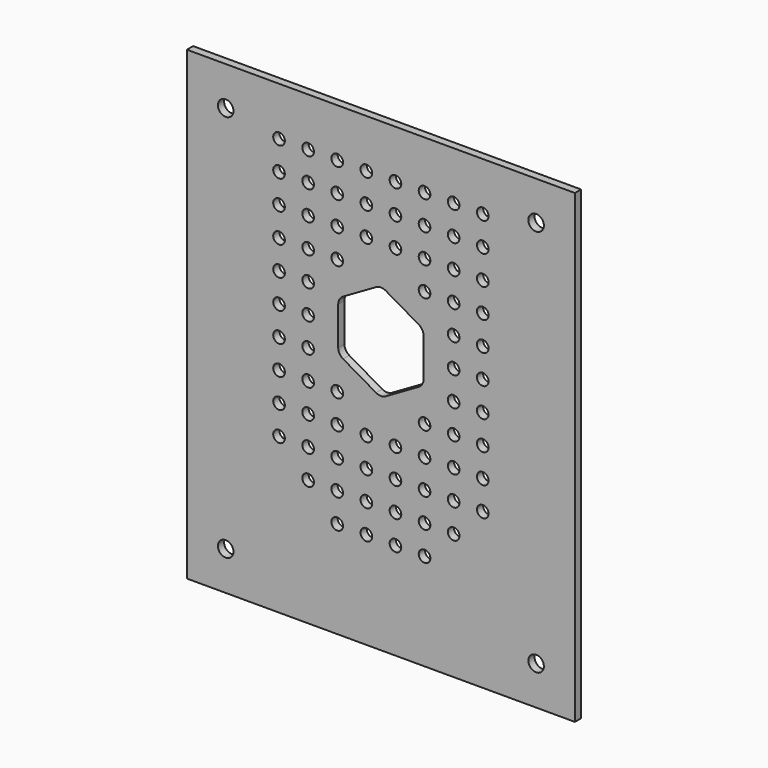
from build123d import *

# Parameters (mm, degrees)
F0_W     = 100
F0_H     = 120
F0_R     = 2
F1_DEPTH = 2
F3_DEPTH = 25
F4_R     = 1.5
F5_DEPTH = 2.001


with BuildPart() as f1:
    # F0 (on Front) → F1 (new body)
    with BuildSketch(Plane.XZ):
        Rectangle(F0_W, F0_H)
        with Locations((-40, -50)):
            Circle(F0_R, mode=Mode.SUBTRACT)
        with Locations((40, -50)):
            Circle(F0_R, mode=Mode.SUBTRACT)
        with Locations((-40, 50)):
            Circle(F0_R, mode=Mode.SUBTRACT)
        with Locations((40, 50)):
            Circle(F0_R, mode=Mode.SUBTRACT)
    extrude(amount=F1_DEPTH)

    # F2 (on face) → F3 (cut)
    with BuildSketch(Plane.XZ.offset(2)):
        with BuildLine():
            Line((-1.25, 21.980018), (-9.75, 17.072541))
            ThreePointArc((-9.75, 17.072541), (-10.665064, 16.157477), (-11, 14.907477))
            Line((-11, 14.907477), (-11, 5.092523))
            ThreePointArc((-11, 5.092523), (-10.665064, 3.842523), (-9.75, 2.927459))
            Line((-9.75, 2.927459), (-1.25, -1.980018))
            ThreePointArc((-1.25, -1.980018), (0, -2.314955), (1.25, -1.980018))
            Line((1.25, -1.980018), (9.75, 2.927459))
            ThreePointArc((9.75, 2.927459), (10.665064, 3.842523), (11, 5.092523))
            Line((11, 5.092523), (11, 10.354255))
            Line((11, 10.354255), (0, 10.354255))
            Line((0, 10.354255), (0, 22.314955))
            ThreePointArc((0, 22.314955), (-0.647048, 22.229769), (-1.25, 21.980018))
        make_face()
        with BuildLine():
            ThreePointArc((1.25, 21.980018), (0.647048, 22.229769), (0, 22.314955))
            Line((0, 22.314955), (0, 10.354255))
            Line((0, 10.354255), (11, 10.354255))
            Line((11, 10.354255), (11, 14.907477))
            ThreePointArc((11, 14.907477), (10.665064, 16.157477), (9.75, 17.072541))
            Line((9.75, 17.072541), (1.25, 21.980018))
        make_face()
    extrude(amount=-F3_DEPTH, mode=Mode.SUBTRACT)

    # F4 (on face) → F5 (cut, through all)
    with BuildSketch(Plane.XZ.offset(2)):
        with Locations((3.75, 47.5)):
            Circle(F4_R)
        with Locations((3.75, 40)):
            Circle(F4_R)
        with Locations((3.75, 32.5)):
            Circle(F4_R)
        with Locations((11.25, 47.5)):
            Circle(F4_R)
        with Locations((11.25, 40)):
            Circle(F4_R)
        with Locations((11.25, 32.5)):
            Circle(F4_R)
        with Locations((11.25, 25)):
            Circle(F4_R)
        with Locations((18.75, 47.5)):
            Circle(F4_R)
        with Locations((18.75, 40)):
            Circle(F4_R)
        with Locations((18.75, 32.5)):
            Circle(F4_R)
        with Locations((18.75, 25)):
            Circle(F4_R)
        with Locations((18.75, 17.5)):
            Circle(F4_R)
        with Locations((18.75, 10)):
            Circle(F4_R)
        with Locations((18.75, 2.5)):
            Circle(F4_R)
        with Locations((26.25, 47.5)):
            Circle(F4_R)
        with Locations((26.25, 40)):
            Circle(F4_R)
        with Locations((26.25, 32.5)):
            Circle(F4_R)
        with Locations((26.25, 25)):
            Circle(F4_R)
        with Locations((26.25, 17.5)):
            Circle(F4_R)
        with Locations((26.25, 10)):
            Circle(F4_R)
        with Locations((26.25, 2.5)):
            Circle(F4_R)
        with Locations((3.75, -12.5)):
            Circle(F4_R)
        with Locations((3.75, -20)):
            Circle(F4_R)
        with Locations((3.75, -27.5)):
            Circle(F4_R)
        with Locations((3.75, -35)):
            Circle(F4_R)
        with Locations((11.25, -5)):
            Circle(F4_R)
        with Locations((11.25, -12.5)):
            Circle(F4_R)
        with Locations((11.25, -20)):
            Circle(F4_R)
        with Locations((11.25, -27.5)):
            Circle(F4_R)
        with Locations((11.25, -35)):
            Circle(F4_R)
        with Locations((18.75, -5)):
            Circle(F4_R)
        with Locations((18.75, -12.5)):
            Circle(F4_R)
        with Locations((18.75, -20)):
            Circle(F4_R)
        with Locations((18.75, -27.5)):
            Circle(F4_R)
        with Locations((26.25, -5)):
            Circle(F4_R)
        with Locations((26.25, -12.5)):
            Circle(F4_R)
        with Locations((26.25, -20)):
            Circle(F4_R)
        with Locations((-3.75, 47.5)):
            Circle(F4_R)
        with Locations((-3.75, 40)):
            Circle(F4_R)
        with Locations((-3.75, -12.5)):
            Circle(F4_R)
        with Locations((-3.75, -35)):
            Circle(F4_R)
        with Locations((-26.25, 17.5)):
            Circle(F4_R)
        with Locations((-26.25, -12.5)):
            Circle(F4_R)
        with Locations((-26.25, -5)):
            Circle(F4_R)
        with Locations((-26.25, 47.5)):
            Circle(F4_R)
        with Locations((-26.25, 32.5)):
            Circle(F4_R)
        with Locations((-26.25, 10)):
            Circle(F4_R)
        with Locations((-26.25, 40)):
            Circle(F4_R)
        with Locations((-3.75, -27.5)):
            Circle(F4_R)
        with Locations((-11.25, 40)):
            Circle(F4_R)
        with Locations((-26.25, 2.5)):
            Circle(F4_R)
        with Locations((-11.25, -27.5)):
            Circle(F4_R)
        with Locations((-11.25, 32.5)):
            Circle(F4_R)
        with Locations((-11.25, 47.5)):
            Circle(F4_R)
        with Locations((-18.75, 25)):
            Circle(F4_R)
        with Locations((-18.75, 10)):
            Circle(F4_R)
        with Locations((-11.25, -35)):
            Circle(F4_R)
        with Locations((-11.25, -20)):
            Circle(F4_R)
        with Locations((-18.75, 2.5)):
            Circle(F4_R)
        with Locations((-18.75, -12.5)):
            Circle(F4_R)
        with Locations((-11.25, -5)):
            Circle(F4_R)
        with Locations((-11.25, -12.5)):
            Circle(F4_R)
        with Locations((-18.75, -20)):
            Circle(F4_R)
        with Locations((-18.75, 32.5)):
            Circle(F4_R)
        with Locations((-26.25, 25)):
            Circle(F4_R)
        with Locations((-26.25, -20)):
            Circle(F4_R)
        with Locations((-11.25, 25)):
            Circle(F4_R)
        with Locations((-3.75, 32.5)):
            Circle(F4_R)
        with Locations((-18.75, 47.5)):
            Circle(F4_R)
        with Locations((-18.75, -5)):
            Circle(F4_R)
        with Locations((-18.75, 40)):
            Circle(F4_R)
        with Locations((-18.75, -27.5)):
            Circle(F4_R)
        with Locations((-18.75, 17.5)):
            Circle(F4_R)
        with Locations((-3.75, -20)):
            Circle(F4_R)
    extrude(amount=-F5_DEPTH, mode=Mode.SUBTRACT)


solid = f1.part
